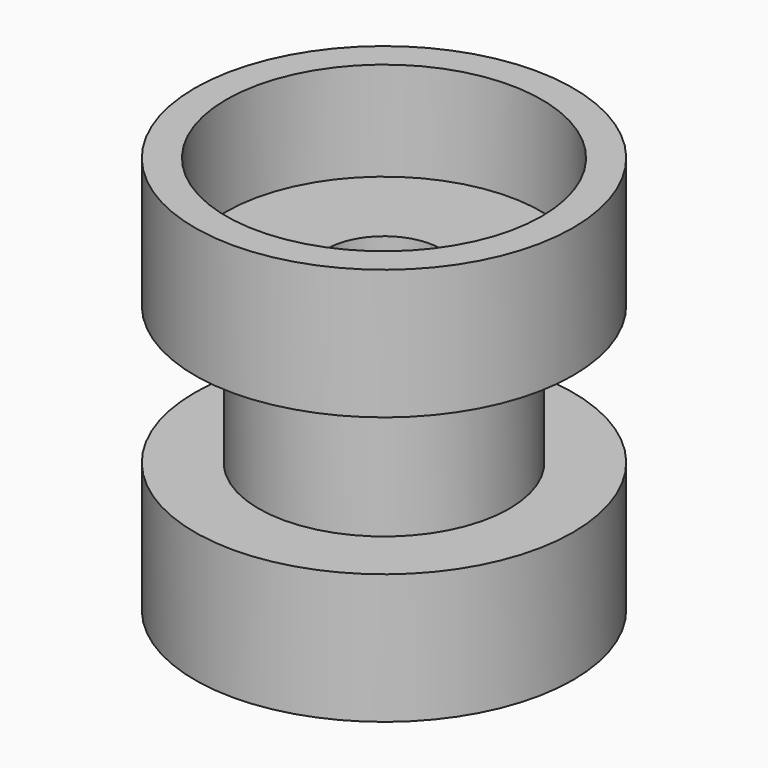
from build123d import *

# Parameters (mm, degrees)
F0_R     = 6.35
F0_R_2   = 2.89687
F1_DEPTH = 7
F2_R     = 9.587497
F2_R_2   = 2.89687
F3_DEPTH = 1.5875
F4_R     = 9.587497
F4_R_2   = 8
F5_DEPTH = 5
F6_R     = 9.587497
F6_R_2   = 2.89687
F7_DEPTH = 1.5875
F8_R     = 9.587497
F8_R_2   = 8
F9_DEPTH = 5


with BuildPart() as f1:
    # F0 (on Top) → F1 (new body)
    with BuildSketch(Plane.XY):
        Circle(F0_R)
        Circle(F0_R_2, mode=Mode.SUBTRACT)
    extrude(amount=F1_DEPTH)

    # F2 (on face) → F3 (join)
    with BuildSketch(Plane.XY.offset(7)):
        Circle(F2_R)
        Circle(F2_R_2, mode=Mode.SUBTRACT)
    extrude(amount=F3_DEPTH)



with BuildPart() as f5:
    # F4 (on face) → F5 (new body)
    with BuildSketch(Plane(origin=(0, 0, -1.5875), x_dir=(1, 0, 0), z_dir=(0, 0, -1))):
        Circle(F4_R)
        Circle(F4_R_2, mode=Mode.SUBTRACT)
    extrude(amount=F5_DEPTH)


with BuildPart() as f1_1:
    add(f1.part)

    add(f5.part)  # F7 merges F5
    # F6 (on face) → F7 (join)
    with BuildSketch(Plane(origin=(0, 0, 0), x_dir=(1, 0, 0), z_dir=(0, 0, -1))):
        Circle(F6_R)
        Circle(F6_R_2, mode=Mode.SUBTRACT)
    extrude(amount=F7_DEPTH)

    # F8 (on face) → F9 (join)
    with BuildSketch(Plane.XY.offset(8.5875)):
        Circle(F8_R)
        Circle(F8_R_2, mode=Mode.SUBTRACT)
    extrude(amount=F9_DEPTH)


solid = f1_1.part
